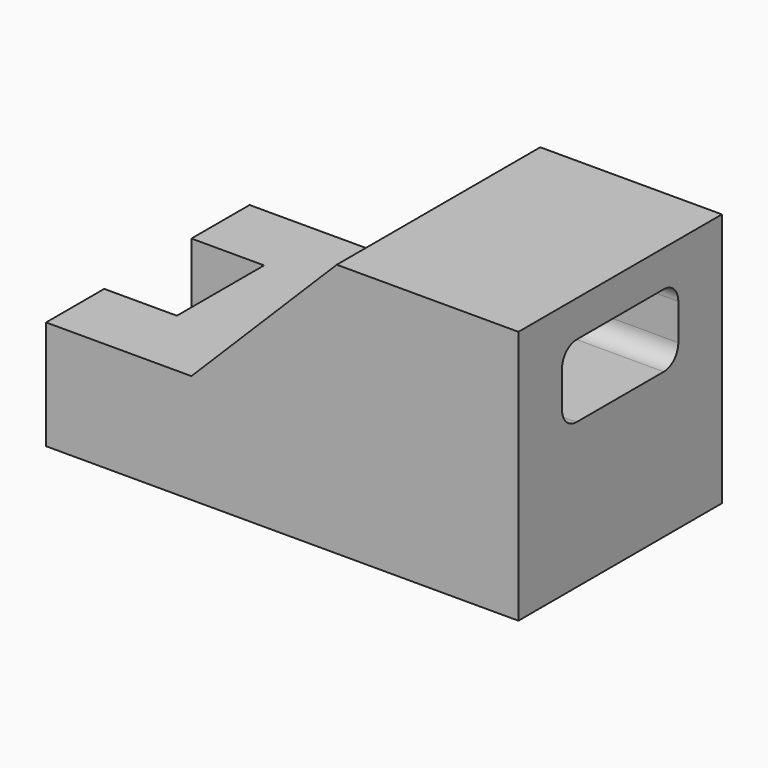
from build123d import *

# Parameters (mm, degrees)
F1_DEPTH = 700
F3_DEPTH = 1300.001
F4_W     = 200
F4_H     = 300
F5_DEPTH = 25.4
F6_DEPTH = 25.4
F7_DEPTH = 350.801


with BuildPart() as f1:
    # F0 (on Front) → F1 (new body)
    with BuildSketch(Plane.XZ):
        Polygon((-650, -50), (-650, -350), (650, -350), (650, 350), (150, 350), (-250, -50), align=None)
    extrude(amount=F1_DEPTH)

    # F2 (on face) → F3 (cut, through all)
    with BuildSketch(Plane.YZ.offset(650)):
        with BuildLine():
            Line((-500, 50), (-200, 50))
            ThreePointArc((-200, 50), (-164.6446609407, 64.6446609407), (-150, 100))
            Line((-150, 100), (-150, 200))
            ThreePointArc((-150, 200), (-164.6446609407, 235.3553390593), (-200, 250))
            Line((-200, 250), (-500, 250))
            ThreePointArc((-500, 250), (-535.3553390593, 235.3553390593), (-550, 200))
            Line((-550, 200), (-550, 100))
            ThreePointArc((-550, 100), (-535.3553390593, 64.6446609407), (-500, 50))
        make_face()
    extrude(amount=-F3_DEPTH, mode=Mode.SUBTRACT)

    # F4 (on face) → F5 (join)
    with BuildSketch(Plane.XY.offset(-50)):
        with Locations((-550, -350)):
            Rectangle(F4_W, F4_H)
    extrude(amount=F5_DEPTH)

    # F6 (add): a face of the model
    f6_faces = [f1.faces().sort_by_distance(p)[0] for p in [
        (-550, -350, -24.6),
    ]]
    extrude(f6_faces, amount=F6_DEPTH)

    # F7 (cut, through all): a face of the model
    f7_faces = [f1.faces().sort_by_distance(p)[0] for p in [
        (-550, -350, 0.8),
    ]]
    extrude(f7_faces, amount=-F7_DEPTH, mode=Mode.SUBTRACT)


solid = f1.part
